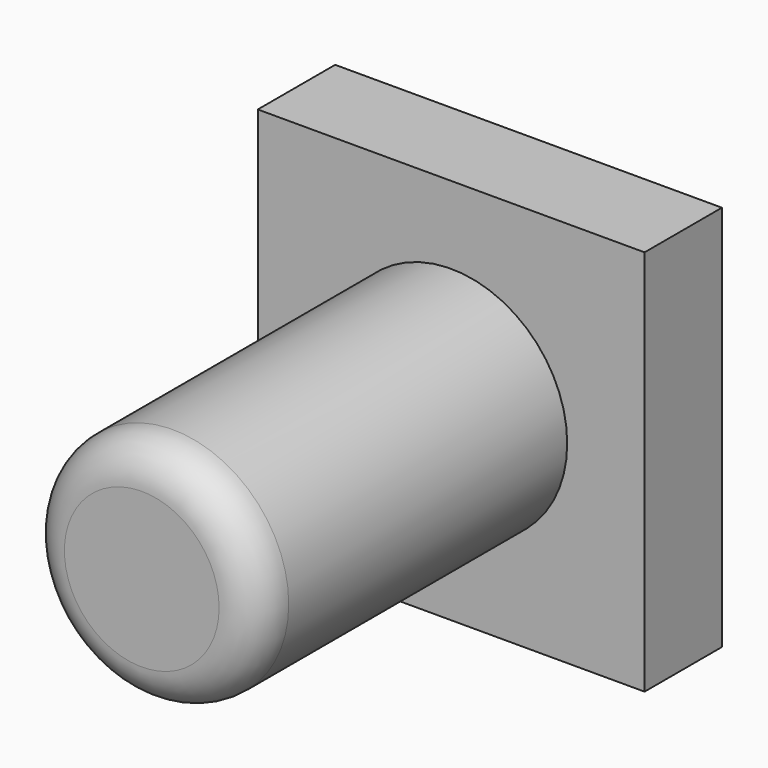
from build123d import *

# Parameters (mm, degrees)
F0_R     = 7.62
F1_DEPTH = 25.4
F2_R     = 2.54
F4_DEPTH = 6.35


with BuildPart() as f1:
    # F0 (on Front) → F1 (new body)
    with BuildSketch(Plane.XZ):
        with Locations((0, 6.581996)):
            Circle(F0_R)
    extrude(amount=F1_DEPTH)

    # F2
    f2_edges = [f1.edges().sort_by_distance(p)[0] for p in [
        (-7.62, -25.4, 6.581996),
    ]]
    fillet(f2_edges, radius=F2_R)

    # F3 (on Front) → F4 (join)
    with BuildSketch(Plane.XZ):
        Polygon((-12.7, 19.281996), (-12.7, 15.119903), (-12.7, -6.118004), (12.7, -6.118004), (12.7, 19.281996), align=None)
    extrude(amount=-F4_DEPTH)


solid = f1.part
